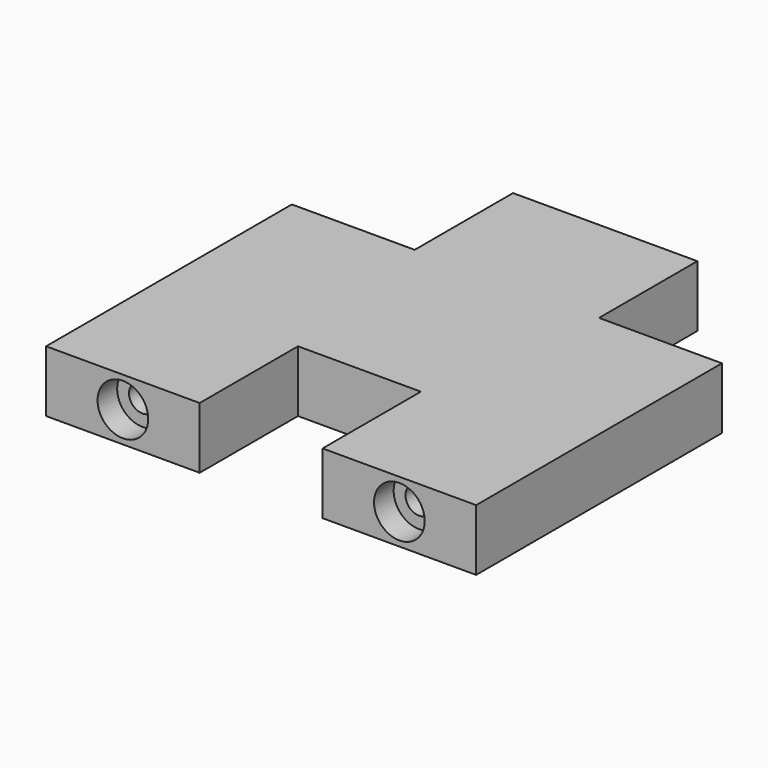
from build123d import *

# Parameters (mm, degrees)
F0_W                 = 30
F0_H                 = 20
F1_DEPTH             = 10
F4_D                 = 4.4
F4_DEPTH             = 14.4
F4_CBORE_D           = 8.25
F4_CBORE_DEPTH       = 4
F4_TIP               = 1.3218933619
F4_ON_F3_D           = 4.4
F4_ON_F3_DEPTH       = 14.4
F4_ON_F3_CBORE_D     = 8.25
F4_ON_F3_CBORE_DEPTH = 4
F4_ON_F3_TIP         = 1.3218933619
F6_D                 = 4
F6_DEPTH             = 10
F6_TIP               = 1.2017212381


with BuildPart() as f1:
    # F0 (on Top) → F1 (new body)
    with BuildSketch(Plane.XY):
        Polygon((-15, 50), (-35, 50), (-35, 0), (-10, 0), (-10, 20), (10, 20), (10, 0), (35, 0), (35, 50), (15, 50), align=None)
        with Locations((0, 60)):
            Rectangle(F0_W, F0_H)
    extrude(amount=F1_DEPTH)

    # F4
    with Locations(Plane.XZ):
        with Locations((-22.5, 5)):
            CounterBoreHole(F4_D / 2, F4_CBORE_D / 2, F4_CBORE_DEPTH, depth=F4_DEPTH)
            with Locations((0, 0, -(F4_DEPTH + F4_TIP / 2))):  # 118° drill point
                Cone(0, F4_D / 2, F4_TIP, mode=Mode.SUBTRACT)

    # F4 on F3
    with Locations(Plane.XZ):
        with Locations((22.5, 5)):
            CounterBoreHole(F4_ON_F3_D / 2, F4_ON_F3_CBORE_D / 2, F4_ON_F3_CBORE_DEPTH, depth=F4_ON_F3_DEPTH)
            with Locations((0, 0, -(F4_ON_F3_DEPTH + F4_ON_F3_TIP / 2))):  # 118° drill point
                Cone(0, F4_ON_F3_D / 2, F4_ON_F3_TIP, mode=Mode.SUBTRACT)

    # F6
    with Locations(Plane(origin=(0, 70, 0), x_dir=(-1, 0, 0), z_dir=(0, 1, 0))):
        with Locations((0, 5)):
            Hole(F6_D / 2, depth=F6_DEPTH)
            with Locations((0, 0, -(F6_DEPTH + F6_TIP / 2))):  # 118° drill point
                Cone(0, F6_D / 2, F6_TIP, mode=Mode.SUBTRACT)


solid = f1.part
